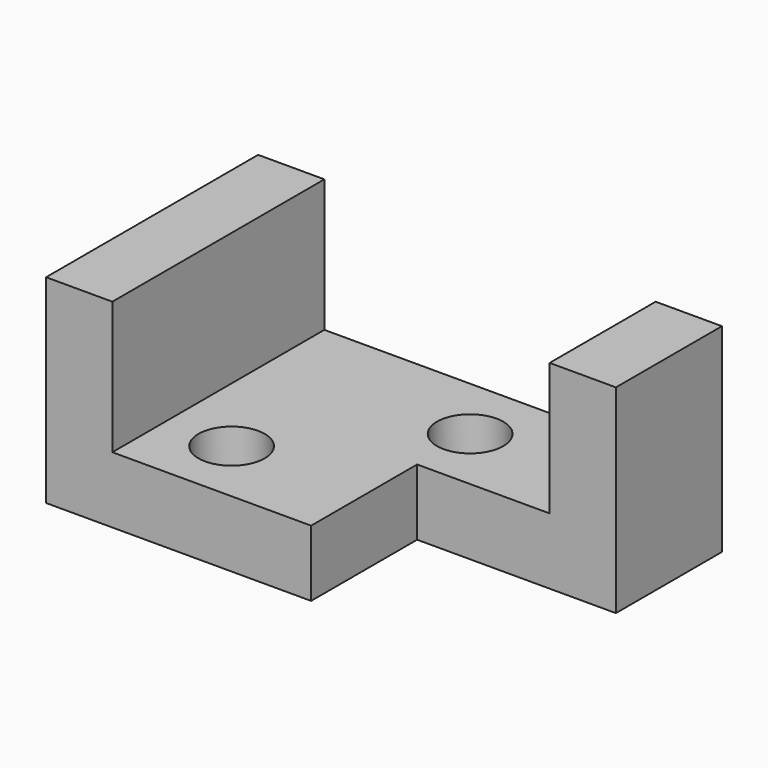
from build123d import *

# Parameters (mm, degrees)
F1_DEPTH = 50.8
F2_W     = 25.4
F2_H     = 38.1
F3_DEPTH = 38.1
F4_R     = 6.35
F5_DEPTH = 12.7
F6_DEPTH = 38.101
F7_DEPTH = 38.101


with BuildPart() as f1:
    # F0 (on Front) → F1 (new body)
    with BuildSketch(Plane.XZ):
        Polygon((-76.2, 0), (-88.9, 0), (-88.9, -38.1), (0, -38.1), (0, 0), (-12.7, 0), (-12.7, -25.4), (-76.2, -25.4), align=None)
    extrude(amount=F1_DEPTH)

    # F2 (on face) → F3 (cut)
    with BuildSketch(Plane.YZ):
        with Locations((-38.1, -19.05)):
            Rectangle(F2_W, F2_H)
    extrude(amount=-F3_DEPTH, mode=Mode.SUBTRACT)

    # F4 (on Top) → F5 (cut)
    with BuildSketch(Plane.XY):
        with Locations((-63.5, -38.1)):
            Circle(F4_R)
    extrude(amount=-F5_DEPTH, mode=Mode.SUBTRACT)

    # F4 (on Top) → F6 (cut, through all)
    with BuildSketch(Plane.XY):
        with Locations((-63.5, -38.1)):
            Circle(F4_R)
    extrude(amount=-F6_DEPTH, mode=Mode.SUBTRACT)

    # F4 (on Top) → F7 (cut, through all)
    with BuildSketch(Plane.XY):
        with Locations((-38.1, -12.7)):
            Circle(F4_R)
    extrude(amount=-F7_DEPTH, mode=Mode.SUBTRACT)


solid = f1.part
